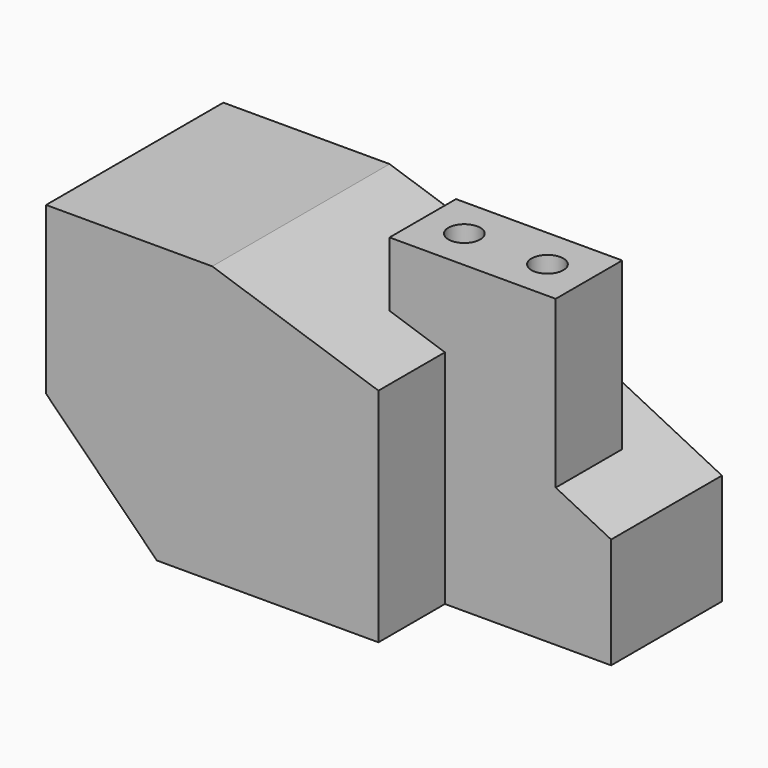
from build123d import *

# Parameters (mm, degrees)
F1_DEPTH = 50.8
F3_DEPTH = 19.05
F5_DEPTH = 12.7
F6_W     = 38.1
F6_H     = 19.05
F7_DEPTH = 19.05
F8_R     = 3.651142
F9_DEPTH = 69.851


with BuildPart() as f1:
    # F0 (on Front) → F1 (new body)
    with BuildSketch(Plane.XZ):
        Polygon((-12.7, 0), (38.1, 0), (38.1, 50.8), (0, 63.5), (-38.1, 63.5), (-38.1, 25.4), align=None)
        Polygon((38.1, 50.8), (38.1, 0), (76.2, 0), (76.2, 25.4), (63.5, 31.75), (63.5, 50.8), align=None)
    extrude(amount=F1_DEPTH)

    # F2 (on face) → F3 (cut)
    with BuildSketch(Plane.XZ.offset(50.8)):
        Polygon((63.5, 50.8), (38.1, 50.8), (38.1, 0), (76.2, 0), (76.2, 25.4), (63.5, 31.75), align=None)
    extrude(amount=-F3_DEPTH, mode=Mode.SUBTRACT)

    # F4 (on face) → F5 (cut)
    with BuildSketch(Plane(origin=(0, 0, 0), x_dir=(-1, 0, 0), z_dir=(0, 1, 0))):
        Polygon((-63.5, 50.8), (-63.5, 31.75), (-38.1, 44.45), (-38.1, 50.8), align=None)
    extrude(amount=-F5_DEPTH, mode=Mode.SUBTRACT)

    # F6 (on face) → F7 (join)
    with BuildSketch(Plane.XY.offset(50.8)):
        with Locations((44.45, -22.225)):
            Rectangle(F6_W, F6_H)
    extrude(amount=F7_DEPTH)

    # F8 (on face) → F9 (cut, through all)
    with BuildSketch(Plane.XY.offset(69.85)):
        with Locations((34.925, -22.225)):
            Circle(F8_R)
        with Locations((53.975, -22.225)):
            Circle(F8_R)
    extrude(amount=-F9_DEPTH, mode=Mode.SUBTRACT)


solid = f1.part
